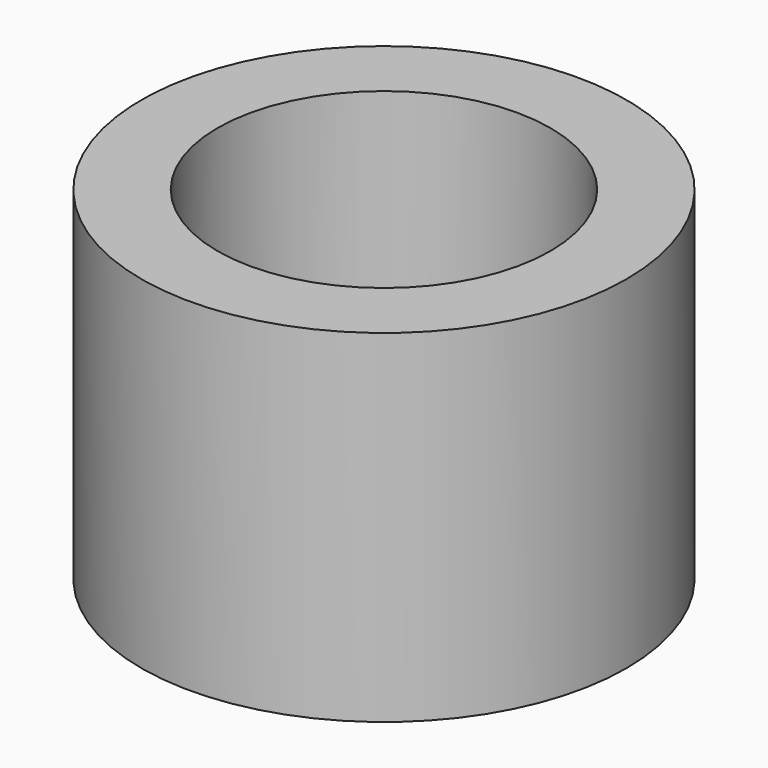
from build123d import *

# Parameters (mm, degrees)
F0_R     = 35.413453
F1_DEPTH = 50
F2_R     = 30.967597
F3_DEPTH = 50
F4_R     = 30.405433
F5_DEPTH = 50
F6_R     = 24.310595
F7_DEPTH = 50


with BuildPart() as f1:
    # F0 (on Top) → F1 (new body)
    with BuildSketch(Plane.XY):
        Circle(F0_R)
    extrude(amount=F1_DEPTH)

    # F2 (on Top) → F3 (cut)
    with BuildSketch(Plane.XY):
        Circle(F2_R)
    extrude(amount=-F3_DEPTH, mode=Mode.SUBTRACT)

    # F4 (on Top) → F5 (cut)
    with BuildSketch(Plane.XY):
        Circle(F4_R)
    extrude(amount=-F5_DEPTH, mode=Mode.SUBTRACT)

    # F6 (on Top) → F7 (cut)
    with BuildSketch(Plane.XY):
        Circle(F6_R)
    extrude(amount=F7_DEPTH, mode=Mode.SUBTRACT)


solid = f1.part
